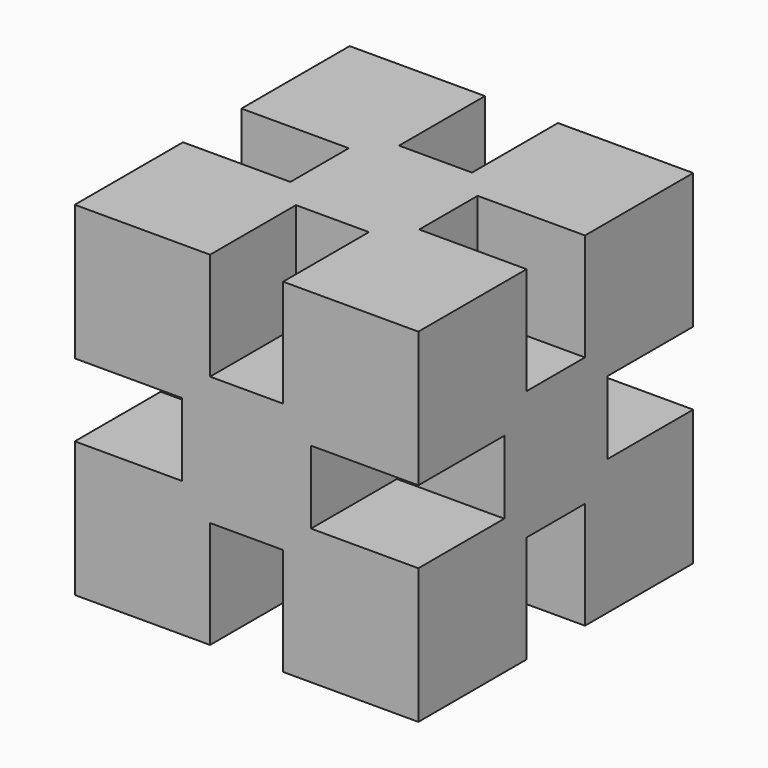
from build123d import *

# Parameters (mm, degrees)
BOX002_W       = 90
BOX002_H       = 90
BOX002_DEPTH   = 3.4
ARRAY004_COUNT = 3
ARRAY004_ANGLE = 180
ARRAY_COUNT    = 4
BOX_W          = 16
BOX_H          = 16
BOX_DEPTH      = 16


with BuildPart() as array:
    # Box002 → Box002 (new body)
    with BuildSketch(Plane(origin=(3, 3, -1.7), x_dir=(1, 0, 0), z_dir=(0, 0, 1))):
        with Locations((45, 45)):
            Rectangle(BOX002_W, BOX002_H)
    extrude(amount=BOX002_DEPTH)

    # Array004: Array ×3 about axis
    array004_axis = Axis((0, 0, 0), (0, 1, 0))


with BuildPart() as array_1:
    add(array.part)
    for i in range(1, ARRAY004_COUNT):
        add(array.part.rotate(array004_axis, i * ARRAY004_ANGLE / (ARRAY004_COUNT - 1)))

    # Array: Array ×4 about axis
    array_axis = Axis((0, 0, 0), (1, 0, 0))


with BuildPart() as array_2:
    add(array_1.part)
    for i in range(1, ARRAY_COUNT):
        add(array_1.part.rotate(array_axis, i * 360 / ARRAY_COUNT))


with BuildPart() as cut001:
    # Box → Box (new body)
    with BuildSketch(Plane(origin=(-8, -8, -8), x_dir=(1, 0, 0), z_dir=(0, 0, 1))):
        with Locations((8, 8)):
            Rectangle(BOX_W, BOX_H)
    extrude(amount=BOX_DEPTH)

    # Cut001: cut Array
    add(array_2.part, mode=Mode.SUBTRACT)


solid = cut001.part
